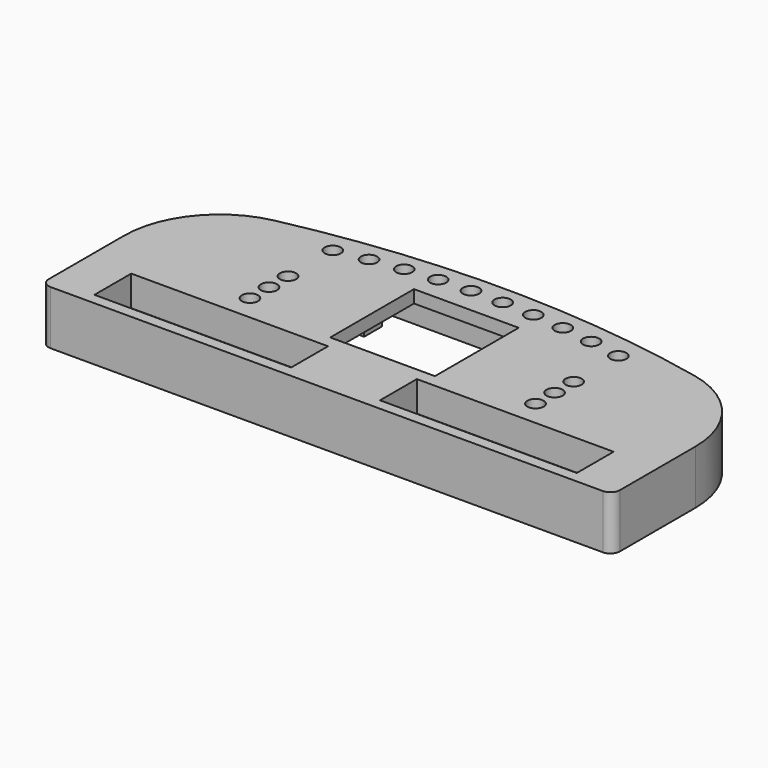
from build123d import *

# Parameters (mm, degrees)
SKETCH021_R     = 2.55
SKETCH021_W     = 33
SKETCH021_H     = 33
SKETCH021_W_2   = 62
SKETCH021_H_2   = 14.5
PAD013_DEPTH    = 17
FILLET010_R     = 30
FILLET011_R     = 3
SKETCH023_W     = 178
SKETCH023_H     = 19.5
POCKET006_DEPTH = 7.4
SKETCH024_R     = 0.9
POCKET007_DEPTH = 6
SKETCH025_W     = 72
SKETCH025_H     = 34
POCKET008_DEPTH = 3
POCKET012_DEPTH = 10
SKETCH028_R     = 1.25
POCKET013_DEPTH = 7
SKETCH030_R     = 0.9
POCKET014_DEPTH = 8


with BuildPart() as part:
    # Sketch021 → Pad013 (new body)
    with BuildSketch(Plane.XY):
        with BuildLine():
            Line((-90, -38.5), (-90, 17.5))
            ThreePointArc((90, 17.5), (0, 30.595035), (-90, 17.5))
            Line((90, 17.5), (90, -38.5))
            Line((90, -38.5), (-90, -38.5))
        make_face()
        with Locations((-45, 2.5)):
            Circle(SKETCH021_R, mode=Mode.SUBTRACT)
        with Locations((-45, -5)):
            Circle(SKETCH021_R, mode=Mode.SUBTRACT)
        with Locations((-45, -12.5)):
            Circle(SKETCH021_R, mode=Mode.SUBTRACT)
        with Locations((-45, 20.135045)):
            Circle(SKETCH021_R, mode=Mode.SUBTRACT)
        with Locations((-35, 21.92157)):
            Circle(SKETCH021_R, mode=Mode.SUBTRACT)
        with Locations((-25, 23.252201)):
            Circle(SKETCH021_R, mode=Mode.SUBTRACT)
        with Locations((-15, 24.134956)):
            Circle(SKETCH021_R, mode=Mode.SUBTRACT)
        with Locations((-5, 24.575048)):
            Circle(SKETCH021_R, mode=Mode.SUBTRACT)
        with Locations((5, 24.575048)):
            Circle(SKETCH021_R, mode=Mode.SUBTRACT)
        with Locations((15, 24.134956)):
            Circle(SKETCH021_R, mode=Mode.SUBTRACT)
        with Locations((25, 23.252201)):
            Circle(SKETCH021_R, mode=Mode.SUBTRACT)
        with Locations((35, 21.92157)):
            Circle(SKETCH021_R, mode=Mode.SUBTRACT)
        with Locations((45, 20.135045)):
            Circle(SKETCH021_R, mode=Mode.SUBTRACT)
        with Locations((45, 2.5)):
            Circle(SKETCH021_R, mode=Mode.SUBTRACT)
        with Locations((45, -12.5)):
            Circle(SKETCH021_R, mode=Mode.SUBTRACT)
        with Locations((45, -5)):
            Circle(SKETCH021_R, mode=Mode.SUBTRACT)
        Rectangle(SKETCH021_W, SKETCH021_H, mode=Mode.SUBTRACT)
        with Locations((-45, -27.75)):
            Rectangle(SKETCH021_W_2, SKETCH021_H_2, mode=Mode.SUBTRACT)
        with Locations((45, -27.75)):
            Rectangle(SKETCH021_W_2, SKETCH021_H_2, mode=Mode.SUBTRACT)
    extrude(amount=PAD013_DEPTH)

    # Fillet010
    fillet010_edges = [part.edges().sort_by_distance(p)[0] for p in [
        (90, 17.5, 8.5),
        (-90, 17.5, 8.5),
    ]]
    fillet(fillet010_edges, radius=FILLET010_R)

    # Fillet011
    fillet011_edges = [part.edges().sort_by_distance(p)[0] for p in [
        (-90, -38.5, 8.5),
        (90, -38.5, 8.5),
    ]]
    fillet(fillet011_edges, radius=FILLET011_R)

    # Sketch023 (on Face33 of Pad013) → Pocket006 (cut)
    with BuildSketch(Plane(origin=(0, 0, 0), x_dir=(1, 0, 0), z_dir=(0, 0, -1))):
        with Locations((0, 26.75)):
            Rectangle(SKETCH023_W, SKETCH023_H)
    extrude(amount=-POCKET006_DEPTH, mode=Mode.SUBTRACT)

    # Sketch024 (on Face43 of Pocket006) → Pocket007 (cut)
    with BuildSketch(Plane(origin=(0, 0, 7.4), x_dir=(1, 0, 0), z_dir=(0, 0, -1))):
        with Locations((-82.5, 32.95)):
            Circle(SKETCH024_R)
        with Locations((-6, 23.95)):
            Circle(SKETCH024_R)
        with Locations((9.7, 23.95)):
            Circle(SKETCH024_R)
        with Locations((86.2, 32.95)):
            Circle(SKETCH024_R)
    extrude(amount=-POCKET007_DEPTH, mode=Mode.SUBTRACT)

    # Sketch025 (on Face2 of Pocket007) → Pocket008 (cut)
    with BuildSketch(Plane(origin=(0, 0, 0), x_dir=(1, 0, 0), z_dir=(0, 0, -1))):
        Rectangle(SKETCH025_W, SKETCH025_H)
    extrude(amount=-POCKET008_DEPTH, mode=Mode.SUBTRACT)

    # Sketch029 (on Face46 of Pocket008) → Pocket012 (cut)
    with BuildSketch(Plane(origin=(0, 0, 3), x_dir=(1, 0, 0), z_dir=(0, 0, -1))):
        Polygon((-27, 17), (-27, 10), (-34, 10), (-34, -10), (-27, -10), (-27, -17), (27, -17), (27, -10), (34, -10), (34, 10), (27, 10), (27, 17), align=None)
    extrude(amount=-POCKET012_DEPTH, mode=Mode.SUBTRACT)

    # Sketch028 (on Face2 of Pocket012) → Pocket013 (cut)
    with BuildSketch(Plane(origin=(0, 0, 0), x_dir=(1, 0, 0), z_dir=(0, 0, -1))):
        with Locations((-72, -14)):
            Circle(SKETCH028_R)
        with Locations((72, -14)):
            Circle(SKETCH028_R)
        Polygon((-84.275394, 19.474852), (-84.275394, 4.973012), (-52.122028, -24.818211), (-29.766602, -27.995476), (-10.059475, -29.217621), (0, -29.217621), (11.128853, -29.217621), (29.766602, -27.995476), (52.122028, -24.818211), (84.122627, 4.973012), (84.122627, 19.355327), (35.69899, 19.355327), (35.69899, -14.760202), (31.141516, -16.974091), (0, -16.974091), (-31.141516, -16.974091), (-35.69899, -14.760202), (-35.69899, 19.474852), align=None)
    extrude(amount=-POCKET013_DEPTH, mode=Mode.SUBTRACT)

    # Sketch030 (on Face61 of Pocket013) → Pocket014 (cut)
    with BuildSketch(Plane(origin=(0, 0, 3), x_dir=(1, 0, 0), z_dir=(0, 0, -1))):
        with Locations((-32, 13.4)):
            Circle(SKETCH030_R)
        with Locations((-32, -13.4)):
            Circle(SKETCH030_R)
        with Locations((32, -13.4)):
            Circle(SKETCH030_R)
        with Locations((32, 13.4)):
            Circle(SKETCH030_R)
    extrude(amount=-POCKET014_DEPTH, mode=Mode.SUBTRACT)


solid = part.part
